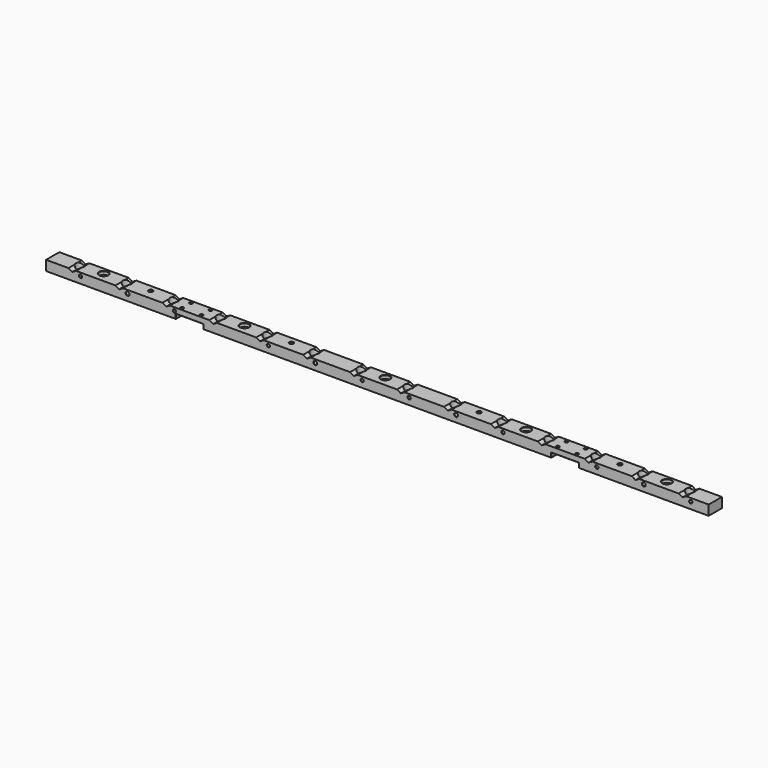
from build123d import *

# Parameters (mm, degrees)
F1_DEPTH  = 12
F2_R      = 8
F3_DEPTH  = 12.5
F4_DEPTH  = 6
F5_R      = 2.5
F6_DEPTH  = 30
F7_R      = 3
F8_DEPTH  = 30
F9_SIZE   = 0.5
F10_R     = 2.5
F11_DEPTH = 12.5
F12_R     = 8
F13_DEPTH = 6
F14_SIZE  = 0.5
F15_R     = 3.4
F16_DEPTH = 25
F17_SIZE  = 0.5
F18_W     = 50
F18_H     = 17.5868125409
F19_DEPTH = 25
F20_R     = 2.5
F21_DEPTH = 25
F22_SIZE  = 0.5
F23_SIZE  = 0.5


with BuildPart() as f1:
    # F0 (on Front) → F1 (new body, symmetric)
    with BuildSketch(Plane.XZ):
        Polygon((-600, 9), (-600, -9), (600, -9), (600, 9), (559.4282032303, 9), (552.5, 5), (545.5717967697, 9), (474.4282032303, 9), (467.5, 5), (460.5717967697, 9), (389.4282032303, 9), (382.5, 5), (375.5717967697, 9), (304.4282032303, 9), (297.5, 5), (290.5717967697, 9), (219.4282032303, 9), (212.5, 5), (205.5717967697, 9), (134.4282032303, 9), (127.5, 5), (120.5717967697, 9), (49.4282032303, 9), (42.5, 5), (35.5717967697, 9), (-35.5717967697, 9), (-42.5, 5), (-49.4282032303, 9), (-120.5717967697, 9), (-127.5, 5), (-134.4282032303, 9), (-205.5717967697, 9), (-212.5, 5), (-219.4282032303, 9), (-290.5717967697, 9), (-297.5, 5), (-304.4282032303, 9), (-375.5717967697, 9), (-382.5, 5), (-389.4282032303, 9), (-460.5717967697, 9), (-467.5, 5), (-474.4282032303, 9), (-545.5717967697, 9), (-552.5, 5), (-559.4282032303, 9), align=None)
    extrude(amount=F1_DEPTH, both=True)

    # F2 (on Top) → F3 (cut, symmetric)
    with BuildSketch(Plane.XY):
        with Locations((-552.5, 0)):
            Circle(F2_R)
        with Locations((-467.5, 0)):
            Circle(F2_R)
        with Locations((-382.5, 0)):
            Circle(F2_R)
        with Locations((-297.5, 0)):
            Circle(F2_R)
        with Locations((-212.5, 0)):
            Circle(F2_R)
        with Locations((-127.5, 0)):
            Circle(F2_R)
        with Locations((-42.5, 0)):
            Circle(F2_R)
        with Locations((42.5, 0)):
            Circle(F2_R)
        with Locations((127.5, 0)):
            Circle(F2_R)
        with Locations((212.5, 0)):
            Circle(F2_R)
        with Locations((297.5, 0)):
            Circle(F2_R)
        with Locations((382.5, 0)):
            Circle(F2_R)
        with Locations((467.5, 0)):
            Circle(F2_R)
        with Locations((552.5, 0)):
            Circle(F2_R)
    extrude(amount=F3_DEPTH, both=True, mode=Mode.SUBTRACT)

    # F4 (add): a face of the model
    f4_faces = [f1.faces().sort_by_distance(p)[0] for p in [
        (0, -12, -0.1402274984),
    ]]
    extrude(f4_faces, amount=F4_DEPTH)

    # F5 (on face) → F6 (cut, through all)
    with BuildSketch(Plane(origin=(0, 12, 0), x_dir=(-1, 0, 0), z_dir=(0, 1, 0))):
        with Locations((-567.5, 3)):
            Circle(F5_R)
        with Locations((-397.5, 3)):
            Circle(F5_R)
        with Locations((-227.5, 3)):
            Circle(F5_R)
        with Locations((-57.5, 3)):
            Circle(F5_R)
        with Locations((27.5, 3)):
            Circle(F5_R)
        with Locations((197.5, 3)):
            Circle(F5_R)
        with Locations((367.5, 3)):
            Circle(F5_R)
        with Locations((537.5, 3)):
            Circle(F5_R)
    extrude(amount=-F6_DEPTH, mode=Mode.SUBTRACT)

    # F7 (on face) → F8 (cut, through all)
    with BuildSketch(Plane(origin=(0, 12, 0), x_dir=(-1, 0, 0), z_dir=(0, 1, 0))):
        with Locations((-482.5, 3)):
            Circle(F7_R)
        with Locations((-142.5, 3)):
            Circle(F7_R)
        with Locations((112.5, 3)):
            Circle(F7_R)
        with Locations((452.5, 3)):
            Circle(F7_R)
    extrude(amount=-F8_DEPTH, mode=Mode.SUBTRACT)

    # F9
    f9_edges = [f1.edges().sort_by_distance(p)[0] for p in [
        (565, -3, 3),
        (570, 12, 3),
        (570, -18, 3),
        (479.5, -3, 3),
        (485.5, 12, 3),
        (485.5, -18, 3),
        (395, -3, 3),
        (400, 12, 3),
        (400, -18, 3),
        (225, -3, 3),
        (230, 12, 3),
        (230, -18, 3),
        (139.5, -3, 3),
        (145.5, 12, 3),
        (145.5, -18, 3),
        (55, -3, 3),
        (60, 12, 3),
        (60, -18, 3),
        (-30, -3, 3),
        (-25, 12, 3),
        (-25, -18, 3),
        (-115.5, -3, 3),
        (-109.5, 12, 3),
        (-109.5, -18, 3),
        (-200, -3, 3),
        (-195, 12, 3),
        (-195, -18, 3),
        (-370, -3, 3),
        (-365, 12, 3),
        (-365, -18, 3),
        (-455.5, -3, 3),
        (-449.5, 12, 3),
        (-449.5, -18, 3),
        (-540, -3, 3),
        (-535, 12, 3),
        (-535, -18, 3),
        (-560.5, 0, -9),
        (-475.5, 0, -9),
        (-390.5, 0, -9),
        (-305.5, 0, -9),
        (-220.5, 0, -9),
        (-135.5, 0, -9),
        (-50.5, 0, -9),
        (34.5, 0, -9),
        (119.5, 0, -9),
        (204.5, 0, -9),
        (289.5, 0, -9),
        (374.5, 0, -9),
        (459.5, 0, -9),
        (544.5, 0, -9),
    ]]
    chamfer(f9_edges, length=F9_SIZE)

    # F10 (on Top) → F11 (cut, symmetric)
    with BuildSketch(Plane.XY):
        with Locations((-510, 0)):
            Circle(F10_R)
        with Locations((-255, 0)):
            Circle(F10_R)
        Circle(F10_R)
        with Locations((255, 0)):
            Circle(F10_R)
        with Locations((510, 0)):
            Circle(F10_R)
    extrude(amount=F11_DEPTH, both=True, mode=Mode.SUBTRACT)

    # F12 (on face) → F13 (cut)
    with BuildSketch(Plane.XY.offset(9)):
        with Locations((-510, 0)):
            Circle(F12_R)
        with Locations((-255, 0)):
            Circle(F12_R)
        Circle(F12_R)
        with Locations((255, 0)):
            Circle(F12_R)
        with Locations((510, 0)):
            Circle(F12_R)
    extrude(amount=-F13_DEPTH, mode=Mode.SUBTRACT)

    # F14
    f14_edges = [f1.edges().sort_by_distance(p)[0] for p in [
        (247, 0, 9),
        (502, 0, 9),
        (-8, 0, 9),
        (-263, 0, 9),
        (-518, 0, 9),
        (-512.5, 0, -9),
        (-257.5, 0, -9),
        (-2.5, 0, -9),
        (252.5, 0, -9),
        (507.5, 0, -9),
        (507.5, 0, 3),
        (252.5, 0, 3),
        (-2.5, 0, 3),
        (-257.5, 0, 3),
        (-512.5, 0, 3),
    ]]
    chamfer(f14_edges, length=F14_SIZE)

    # F15 (on face) → F16 (cut)
    with BuildSketch(Plane(origin=(0, 0, -9), x_dir=(1, 0, 0), z_dir=(0, 0, -1))):
        with Locations((-425, 0)):
            Circle(F15_R)
        with Locations((-170, 0)):
            Circle(F15_R)
        with Locations((425, 0)):
            Circle(F15_R)
        with Locations((170, 0)):
            Circle(F15_R)
    extrude(amount=-F16_DEPTH, mode=Mode.SUBTRACT)

    # F17
    f17_edges = [f1.edges().sort_by_distance(p)[0] for p in [
        (-428.4, 0, -9),
        (-421.6, 0, 0),
        (-428.4, 0, 9),
        (-173.4, 0, -9),
        (-166.6, 0, 0),
        (-173.4, 0, 9),
        (166.6, 0, -9),
        (173.4, 0, 0),
        (166.6, 0, 9),
        (421.6, 0, -9),
        (428.4, 0, 0),
        (421.6, 0, 9),
    ]]
    chamfer(f17_edges, length=F17_SIZE)

    # F18 (on Front) → F19 (cut, symmetric)
    with BuildSketch(Plane.XZ):
        with Locations((-340, -9.7934062704)):
            Rectangle(F18_W, F18_H)
        with Locations((340, -9.7934062704)):
            Rectangle(F18_W, F18_H)
    extrude(amount=F19_DEPTH, both=True, mode=Mode.SUBTRACT)

    # F20 (on face) → F21 (cut)
    with BuildSketch(Plane(origin=(0, 0, -1), x_dir=(1, 0, 0), z_dir=(0, 0, -1))):
        with Locations((-357.5, 13)):
            Circle(F20_R)
        with Locations((-322.5, 13)):
            Circle(F20_R)
        with Locations((-322.5, -7)):
            Circle(F20_R)
        with Locations((-357.5, -7)):
            Circle(F20_R)
        with Locations((322.5, 13)):
            Circle(F20_R)
        with Locations((322.5, -7)):
            Circle(F20_R)
        with Locations((357.5, 13)):
            Circle(F20_R)
        with Locations((357.5, -7)):
            Circle(F20_R)
    extrude(amount=-F21_DEPTH, mode=Mode.SUBTRACT)

    # F22
    f22_edges = [f1.edges().sort_by_distance(p)[0] for p in [
        (-360, 7, -1),
        (-355, 7, 4),
        (-360, 7, 9),
        (-360, -13, -1),
        (-355, -13, 4),
        (-360, -13, 9),
        (-325, -13, -1),
        (-320, -13, 4),
        (-325, -13, 9),
        (-325, 7, -1),
        (-320, 7, 4),
        (-325, 7, 9),
        (320, -13, -1),
        (325, -13, 4),
        (320, -13, 9),
        (320, 7, -1),
        (325, 7, 4),
        (320, 7, 9),
        (355, -13, -1),
        (360, -13, 4),
        (355, -13, 9),
        (355, 7, -1),
        (360, 7, 4),
        (355, 7, 9),
    ]]
    chamfer(f22_edges, length=F22_SIZE)

    # F23
    f23_edges = [f1.edges().sort_by_distance(p)[0] for p in [
        (-365, 12, -5),
        (-340, 12, -1),
        (-315, 12, -5),
        (-315, -18, -5),
        (-340, -18, -1),
        (-365, -18, -5),
        (315, 12, -5),
        (315, -18, -5),
        (340, -18, -1),
        (340, 12, -1),
        (365, 12, -5),
        (365, -18, -5),
    ]]
    chamfer(f23_edges, length=F23_SIZE)


solid = f1.part
